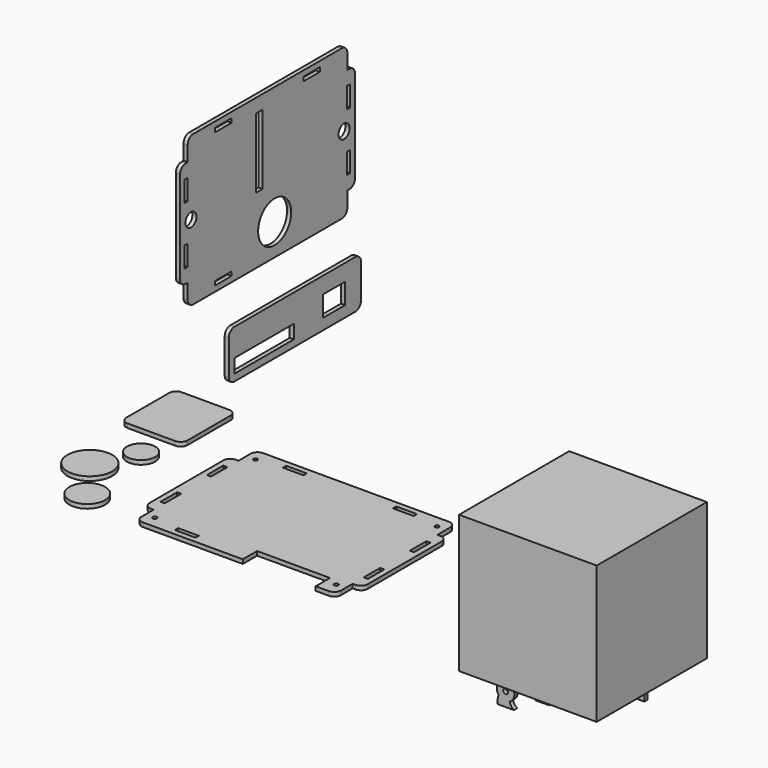
from build123d import *

# Parameters (mm, degrees)
F2_W      = 15
F2_H      = 3
F2_W_2    = 3
F2_H_2    = 15
F2_R      = 15
F2_R_2    = 5
F2_W_3    = 6
F2_H_3    = 50.8
F3_DEPTH  = 3
F0_R      = 1.5
F0_W      = 15
F0_H      = 3
F0_W_2    = 3
F0_H_2    = 15
F5_DEPTH  = 3
F6_DEPTH  = 3
F1_R      = 1.75
F7_R      = 5
F7_2_R    = 5
F8_W      = 120
F8_H      = 35
F8_W_2    = 54
F8_H_2    = 10
F8_W_3    = 20
F8_H_3    = 15
F9_DEPTH  = 3
F10_R     = 5
F0_W_3    = 44.6005091071
F0_H_3    = 49.0869507194
F11_DEPTH = 3
F12_R     = 5
F0_R_2    = 16.2598386494
F13_DEPTH = 3
F0_R_3    = 10.2653225304
F14_DEPTH = 3
F0_R_4    = 13
F15_DEPTH = 3
F0_W_4    = 100
F0_H_4    = 100
F16_DEPTH = 100


with BuildPart() as f3:
    # F2 (on Right) → F3 (new body)
    with BuildSketch(Plane.YZ):
        Polygon((42.9720082134, 68.6126747131), (-102.0279917866, 68.6126747131), (-102.0279917866, 52.6126747131), (-109.0279917866, 52.6126747131), (-109.0279917866, -24.3873252869), (-102.0279917866, -24.3873252869), (-102.0279917866, -40.3873252869), (42.9720082134, -40.3873252869), (42.9720082134, -24.3873252869), (49.9720082134, -24.3873252869), (49.9720082134, 52.6126747131), (42.9720082134, 52.6126747131), align=None)
        with Locations((-69.5279917866, -34.8873252869)):
            Rectangle(F2_W, F2_H, mode=Mode.SUBTRACT)
        with Locations((-103.5279917866, -6.8873252869)):
            Rectangle(F2_W_2, F2_H_2, mode=Mode.SUBTRACT)
        with Locations((-23.0279917866, -17.5993880257)):
            Circle(F2_R, mode=Mode.SUBTRACT)
        with Locations((44.0258905143, -6.8873252869)):
            Rectangle(F2_W_2, F2_H_2, mode=Mode.SUBTRACT)
        with Locations((-99.0279917866, 14.6126747131)):
            Circle(F2_R_2, mode=Mode.SUBTRACT)
        with Locations((-103.5279917866, 35.1126747131)):
            Rectangle(F2_W_2, F2_H_2, mode=Mode.SUBTRACT)
        with Locations((-37.0279917866, 33.2126747131)):
            Rectangle(F2_W_3, F2_H_3, mode=Mode.SUBTRACT)
        with Locations((-69.5279917866, 63.1126747131)):
            Rectangle(F2_W, F2_H, mode=Mode.SUBTRACT)
        with Locations((39.9720082134, 14.6126747131)):
            Circle(F2_R_2, mode=Mode.SUBTRACT)
        with Locations((44.0258905143, 35.1126747131)):
            Rectangle(F2_W_2, F2_H_2, mode=Mode.SUBTRACT)
        with Locations((10.4720082134, 63.1126747131)):
            Rectangle(F2_W, F2_H, mode=Mode.SUBTRACT)
    extrude(amount=F3_DEPTH)


with BuildPart() as f3_1:
    # F4: moved
    add(f3.part.moved(Location((0, 0, 223))))

    # F7#2
    f7_2_edges = [f3_1.edges().sort_by_distance(p)[0] for p in [
        (1.5, 49.972008, 275.612675),
        (1.5, 42.972008, 291.612675),
        (1.5, -102.027992, 291.612675),
        (1.5, -109.027992, 275.612675),
        (1.5, -109.027992, 198.612675),
        (1.5, -102.027992, 182.612675),
        (1.5, 42.972008, 182.612675),
        (1.5, 49.972008, 198.612675),
    ]]
    fillet(f7_2_edges, radius=F7_2_R)


with BuildPart() as f5:
    # F0 (on Top) → F5 (new body)
    with BuildSketch(Plane.XY):
        Polygon((72.5, 54.55), (-72.5, 54.55), (-72.5, 38.5), (-79.5, 38.5), (-79.5, -38.5), (-72.5, -38.5), (-72.5, -54.55), (5.059446767, -54.55), (5.059446767, -41.55), (58.059446767, -41.55), (58.059446767, -54.55), (72.5, -54.55), (72.5, -39.1025282443), (79.5, -39.1025282443), (79.5, 37.8974717557), (72.5, 37.8974717557), align=None)
        with Locations((-65.9, -45.8)):
            Circle(F0_R, mode=Mode.SUBTRACT)
        with Locations((-40, -49.05)):
            Rectangle(F0_W, F0_H, mode=Mode.SUBTRACT)
        with Locations((-74, -21)):
            Rectangle(F0_W_2, F0_H_2, mode=Mode.SUBTRACT)
        with Locations((65.9, -45.7)):
            Circle(F0_R, mode=Mode.SUBTRACT)
        with Locations((74, -21.6025282443)):
            Rectangle(F0_W_2, F0_H_2, mode=Mode.SUBTRACT)
        with Locations((-74, 21)):
            Rectangle(F0_W_2, F0_H_2, mode=Mode.SUBTRACT)
        with Locations((-65.9, 45.7)):
            Circle(F0_R, mode=Mode.SUBTRACT)
        with Locations((-40, 49.05)):
            Rectangle(F0_W, F0_H, mode=Mode.SUBTRACT)
        with Locations((40, 49.05)):
            Rectangle(F0_W, F0_H, mode=Mode.SUBTRACT)
        with Locations((74, 20.3974717557)):
            Rectangle(F0_W_2, F0_H_2, mode=Mode.SUBTRACT)
        with Locations((65.9, 45.8)):
            Circle(F0_R, mode=Mode.SUBTRACT)
    extrude(amount=F5_DEPTH)

    # F7
    f7_edges = [f5.edges().sort_by_distance(p)[0] for p in [
        (-72.5, 54.55, 1.5),
        (-79.5, 38.5, 1.5),
        (-79.5, -38.5, 1.5),
        (-72.5, -54.55, 1.5),
        (72.5, -54.55, 1.5),
        (79.5, -39.102528, 1.5),
        (79.5, 37.897472, 1.5),
        (72.5, 54.55, 1.5),
    ]]
    fillet(f7_edges, radius=F7_R)


with BuildPart() as f6:
    # F1 (on Front) → F6 (new body)
    with BuildSketch(Plane.XZ):
        Polygon((145.5747396946, 35.9691139981), (130.5747396946, 35.9691139981), (130.5747396946, 32.9691139981), (126.5747396946, 32.9691139981), (126.5747396946, 7.9691139981), (130.5747396946, 7.9691139981), (130.5747396946, 4.9691139981), (145.5747396946, 4.9691139981), (145.5747396946, 7.9691139981), (149.5747396946, 7.9691139981), (149.5747396946, 32.9691139981), (145.5747396946, 32.9691139981), align=None)
    extrude(amount=F6_DEPTH)


with BuildPart() as f6b:
    # F1 (on Front) → F6, piece 2 (new body)
    with BuildSketch(Plane.XZ):
        Polygon((150.5396300554, -2.5295225959), (140.5396300554, -2.5295225959), (140.5396300554, -27.5295225959), (150.5396300554, -27.5295225959), (150.5396300554, -30.5295225959), (165.5396300554, -30.5295225959), (165.5396300554, -27.5295225959), (178.0396300554, -27.5295225959), (178.0396300554, -22.5295225959), (218.0396300554, -22.5295225959), (218.0396300554, -27.5295225959), (230.5396300554, -27.5295225959), (230.5396300554, -30.5295225959), (245.5396300554, -30.5295225959), (245.5396300554, -27.5295225959), (255.5396300554, -27.5295225959), (255.5396300554, -2.5295225959), (245.5396300554, -2.5295225959), (245.5396300554, 0.4704774041), (230.5396300554, 0.4704774041), (230.5396300554, -2.5295225959), (218.0396300554, -2.5295225959), (178.0396300554, -2.5295225959), (165.5396300554, -2.5295225959), (165.5396300554, 0.4704774041), (150.5396300554, 0.4704774041), align=None)
    extrude(amount=F6_DEPTH)


with BuildPart() as f6c:
    # F1 (on Front) → F6, piece 3 (new body)
    with BuildSketch(Plane.XZ):
        Polygon((197.9410117865, 50.3223865032), (194.4410117865, 50.3223865032), (194.4410117865, 53.3223865032), (179.4410117865, 53.3223865032), (179.4410117865, 50.3223865032), (175.4410117865, 50.3223865032), (175.4410117865, 25.3223865032), (179.4410117865, 25.3223865032), (179.4410117865, 22.3223865032), (194.4410117865, 22.3223865032), (194.4410117865, 25.3223865032), (197.9410117865, 25.3223865032), (197.9410117865, 30.3223865032), (217.9410117865, 30.3223865032), (217.9410117865, 25.3223865032), (221.4410117865, 25.3223865032), (221.4410117865, 22.3223865032), (236.4410117865, 22.3223865032), (236.4410117865, 25.3223865032), (240.4410117865, 25.3223865032), (240.4410117865, 50.3223865032), (236.4410117865, 50.3223865032), (236.4410117865, 53.3223865032), (221.4410117865, 53.3223865032), (221.4410117865, 50.3223865032), (217.9410117865, 50.3223865032), align=None)
    extrude(amount=F6_DEPTH)


with BuildPart() as f6d:
    # F1 (on Front) → F6, piece 4 (new body)
    with BuildSketch(Plane.XZ):
        with BuildLine():
            ThreePointArc((149.6593853557, -57.5956035294), (148.9838973747, -60.6579824881), (148.7571542263, -63.7857670784))
            Line((148.7571542263, -63.7857670784), (160.7571542263, -63.7857670784))
            ThreePointArc((160.7571542263, -63.7857670784), (158.8238122379, -61.8883333369), (157.7276488394, -59.4111389862))
            ThreePointArc((157.7276488394, -59.4111389862), (156.1532208986, -47.5724151675), (149.6593853557, -57.5956035294))
        make_face()
        with Locations((154.7558605671, -53.7823028862)):
            Circle(F1_R, mode=Mode.SUBTRACT)
    extrude(amount=F6_DEPTH)


with BuildPart() as f6e:
    # F1 (on Front) → F6, piece 5 (new body)
    with BuildSketch(Plane.XZ):
        with BuildLine():
            ThreePointArc((178.9750903845, -44.6766801178), (177.2702119993, -48.3933225998), (176.5130960941, -52.4116328359))
            Line((176.5130960941, -52.4116328359), (186.5130960941, -52.4116328359))
            ThreePointArc((186.5130960941, -52.4116328359), (186.5635953009, -47.1417006426), (185.6052875519, -41.9593863189))
            ThreePointArc((185.6052875519, -41.9593863189), (180.9315420687, -40.0029346347), (178.9750903845, -44.6766801178))
        make_face()
        with Locations((182.2901889682, -43.3180332184)):
            Circle(F1_R, mode=Mode.SUBTRACT)
    extrude(amount=F6_DEPTH)


with BuildPart() as f9:
    # F8 (on Right) → F9 (new body)
    with BuildSketch(Plane.YZ):
        with Locations((-4.6573127015, 135.5841848254)):
            Rectangle(F8_W, F8_H)
        with Locations((-32.6573127015, 128.0841848254)):
            Rectangle(F8_W_2, F8_H_2, mode=Mode.SUBTRACT)
        with Locations((30.8277325332, 133.5841848254)):
            Rectangle(F8_W_3, F8_H_3, mode=Mode.SUBTRACT)
    extrude(amount=F9_DEPTH)

    # F10
    f10_edges = [f9.edges().sort_by_distance(p)[0] for p in [
        (1.5, -64.657313, 118.084185),
        (1.5, -64.657313, 153.084185),
        (1.5, 55.342687, 153.084185),
        (1.5, 55.342687, 118.084185),
    ]]
    fillet(f10_edges, radius=F10_R)


with BuildPart() as f11:
    # F0 (on Top) → F11 (new body)
    with BuildSketch(Plane.XY):
        with Locations((-132.9640038311, 59.5329292119)):
            Rectangle(F0_W_3, F0_H_3)
    extrude(amount=F11_DEPTH)

    # F12
    f12_edges = [f11.edges().sort_by_distance(p)[0] for p in [
        (-110.663749, 34.989454, 1.5),
        (-155.264258, 34.989454, 1.5),
        (-155.264258, 84.076405, 1.5),
        (-110.663749, 84.076405, 1.5),
    ]]
    fillet(f12_edges, radius=F12_R)


with BuildPart() as f13:
    # F0 (on Top) → F13 (new body)
    with BuildSketch(Plane.XY):
        with Locations((-136.5267634392, -16.4726730436)):
            Circle(F0_R_2)
    extrude(amount=F13_DEPTH)


with BuildPart() as f14:
    # F0 (on Top) → F14 (new body)
    with BuildSketch(Plane.XY):
        with Locations((-122.5396245718, 12.5572448596)):
            Circle(F0_R_3)
    extrude(amount=F14_DEPTH)


with BuildPart() as f15:
    # F0 (on Top) → F15 (new body)
    with BuildSketch(Plane.XY):
        with Locations((-114.3584623933, -46.5582236648)):
            Circle(F0_R_4)
    extrude(amount=F15_DEPTH)


with BuildPart() as f16:
    # F0 (on Top) → F16 (new body)
    with BuildSketch(Plane.XY):
        with Locations((233.077776432, -30.6446224451)):
            Rectangle(F0_W_4, F0_H_4)
    extrude(amount=F16_DEPTH)


solid = Compound([f3_1.part, f5.part, f6.part, f6b.part, f6c.part, f6d.part, f6e.part, f9.part, f11.part, f13.part, f14.part, f15.part, f16.part])
